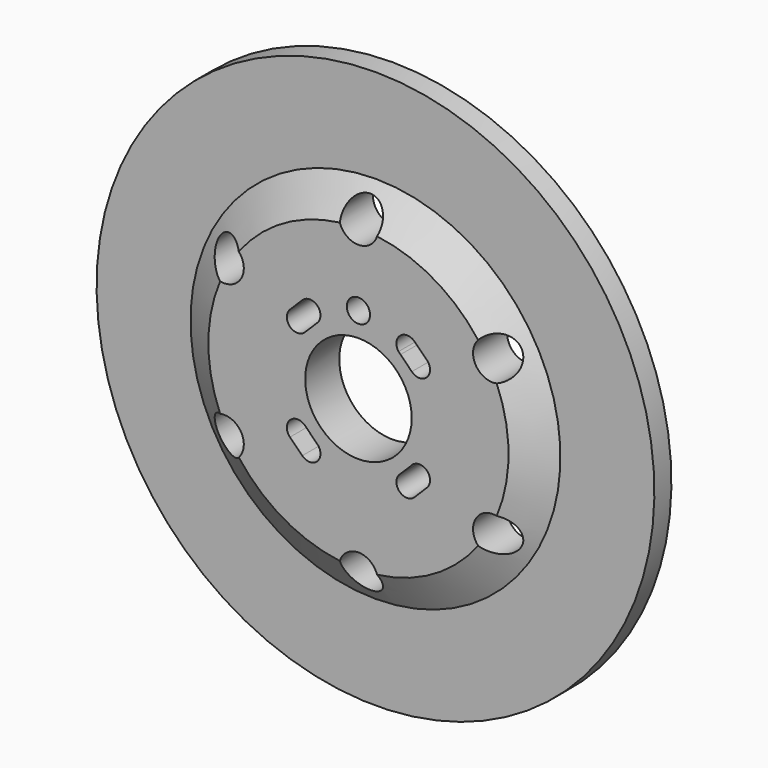
from build123d import *

# Parameters (mm, degrees)
F0_R     = 144
F0_R_2   = 10.1
F0_R_3   = 27.5
F0_R_4   = 6
F3_DEPTH = 25


with BuildPart() as f2:
    # F1 (on Right) → F2 (revolve)
    with BuildSketch(Plane.YZ):
        Polygon((-22, 0), (0, 0), (0, 144), (-11, 144), (-11, 95.5), (-22, 77.5), align=None)
    revolve(axis=Axis((0, -11, 0), (0, 1, 0)))

    # F0 (on Front) → F3 (intersect)
    with BuildSketch(Plane.XZ):
        Circle(F0_R)
        with Locations((-69.282032, -40)):
            Circle(F0_R_2, mode=Mode.SUBTRACT)
        with BuildLine():
            ThreePointArc((-35.355339, -28.991378), (-35.344887, -21.202779), (-27.556343, -21.234136))
            Line((-27.556343, -21.234136), (-21.738307, -27.114974))
            ThreePointArc((-21.738307, -27.114974), (-21.192382, -27.598098), (-20.715148, -28.149178))
            ThreePointArc((-20.715148, -28.149178), (-19.887922, -29.716864), (-19.602291, -31.466252))
            ThreePointArc((-19.602291, -31.466252), (-22.998539, -36.548006), (-28.99292, -35.353796))
            Line((-28.99292, -35.353796), (-35.355339, -28.991378))
        make_face(mode=Mode.SUBTRACT)
        with Locations((0, -80)):
            Circle(F0_R_2, mode=Mode.SUBTRACT)
        with Locations((69.282032, -40)):
            Circle(F0_R_2, mode=Mode.SUBTRACT)
        with BuildLine():
            ThreePointArc((28.991378, -35.355339), (21.202779, -35.344887), (21.234136, -27.556343))
            Line((21.234136, -27.556343), (27.114974, -21.738307))
            ThreePointArc((27.114974, -21.738307), (27.598098, -21.192382), (28.149178, -20.715148))
            ThreePointArc((28.149178, -20.715148), (33.916363, -20.178171), (36.966252, -25.102291))
            ThreePointArc((36.966252, -25.102291), (36.547172, -27.208057), (35.353796, -28.99292))
            Line((35.353796, -28.99292), (28.991378, -35.355339))
        make_face(mode=Mode.SUBTRACT)
        with BuildLine():
            ThreePointArc((-28.991378, 35.355339), (-22.997532, 36.547589), (-19.602291, 31.466252))
            ThreePointArc((-19.602291, 31.466252), (-20.026621, 29.347862), (-21.234136, 27.556343))
            Line((-21.234136, 27.556343), (-27.114974, 21.738307))
            ThreePointArc((-27.114974, 21.738307), (-27.598098, 21.192382), (-28.149178, 20.715148))
            ThreePointArc((-28.149178, 20.715148), (-35.614955, 21.491437), (-35.353796, 28.99292))
            Line((-35.353796, 28.99292), (-28.991378, 35.355339))
        make_face(mode=Mode.SUBTRACT)
        with Locations((-69.282032, 40)):
            Circle(F0_R_2, mode=Mode.SUBTRACT)
        Circle(F0_R_3, mode=Mode.SUBTRACT)
        with BuildLine():
            ThreePointArc((35.355339, 28.991378), (36.547589, 27.20705), (36.966252, 25.102291))
            ThreePointArc((36.966252, 25.102291), (33.557364, 20.015322), (27.556343, 21.234136))
            Line((27.556343, 21.234136), (21.738307, 27.114974))
            ThreePointArc((21.738307, 27.114974), (21.192382, 27.598098), (20.715148, 28.149178))
            ThreePointArc((20.715148, 28.149178), (21.491437, 35.614955), (28.99292, 35.353796))
            Line((28.99292, 35.353796), (35.355339, 28.991378))
        make_face(mode=Mode.SUBTRACT)
        with Locations((0, 40)):
            Circle(F0_R_4, mode=Mode.SUBTRACT)
        with Locations((69.282032, 40)):
            Circle(F0_R_2, mode=Mode.SUBTRACT)
        with Locations((0, 80)):
            Circle(F0_R_2, mode=Mode.SUBTRACT)
    extrude(amount=F3_DEPTH, mode=Mode.INTERSECT)


solid = f2.part
